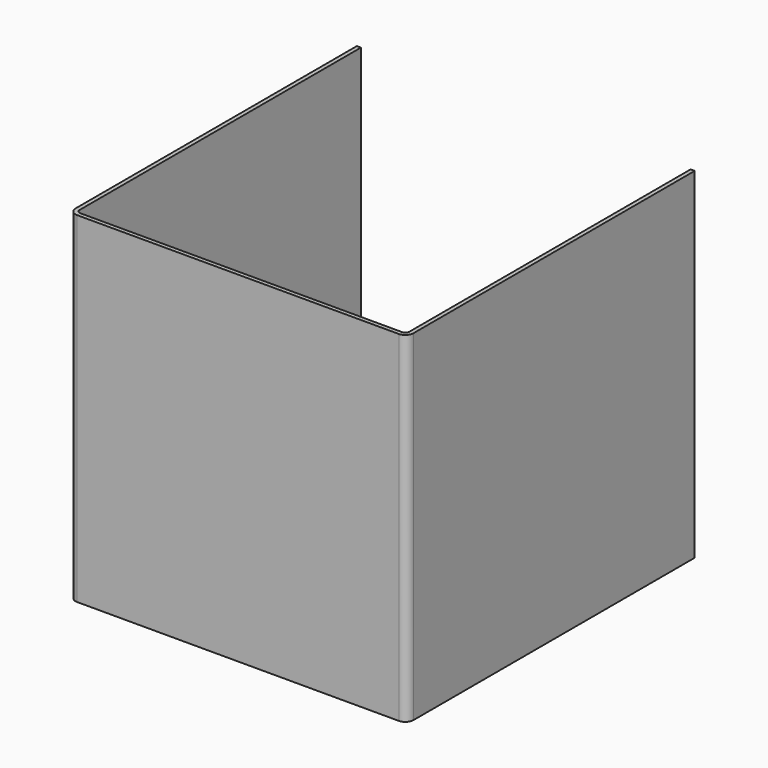
from build123d import *

# Parameters (mm, degrees)
SKETCH044_W    = 248
SKETCH044_H    = 264
PAD020_DEPTH   = 250
FILLET014_R    = 6
THICKNESS002_T = -3


with BuildPart() as part:
    # Sketch044 → Pad020 (new body)
    with BuildSketch(Plane.XY):
        with Locations((0, -132)):
            Rectangle(SKETCH044_W, SKETCH044_H)
    extrude(amount=PAD020_DEPTH)

    # Fillet014
    fillet014_edges = [part.edges().sort_by_distance(p)[0] for p in [
        (124, -264, 125),
        (-124, -264, 125),
    ]]
    fillet(fillet014_edges, radius=FILLET014_R)

    # Thickness002
    thickness002_openings = [part.faces().sort_by_distance(p)[0] for p in [
        (0, -131.969157, 250),
        (0, -131.969157, 0),
        (0, 0, 125),
    ]]
    offset(amount=THICKNESS002_T, openings=thickness002_openings)


solid = part.part
